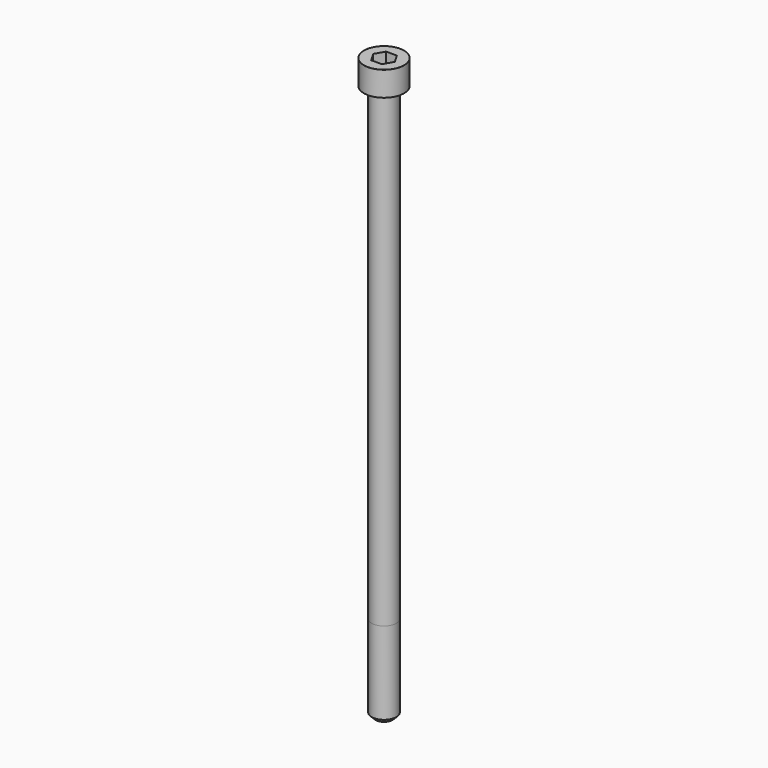
from build123d import *

# Parameters (mm, degrees)
POCKET_DEPTH = 6.06


with BuildPart() as part:
    # Sketch → Revolve (revolve)
    with BuildSketch(Plane.YZ):
        with BuildLine():
            Line((3.999, 0), (6.5, 0))
            Line((6.5, 0), (6.5, 7.97229))
            ThreePointArc((6.5, 7.97229), (6.491884, 7.991884), (6.47229, 8))
            Line((6.47229, 8), (0, 8))
            Line((0, -180), (0, 8))
            Line((2.75, -180), (0, -180))
            Line((4, -178.75), (2.75, -180))
            Line((4, -152), (4, -178.75))
            Line((3.999, 0), (4, -152))
        make_face()
    revolve(axis=Axis((0, 0, 0), (0, 0, 1)))

    # Sketch001 → Pocket (cut)
    with BuildSketch(Plane.XY.offset(8)):
        Polygon((3.498743, 0), (1.749371, 3.03), (-1.749371, 3.03), (-3.498743, 0), (-1.749371, -3.03), (1.749371, -3.03), align=None)
    extrude(amount=-POCKET_DEPTH, mode=Mode.SUBTRACT)


solid = part.part
